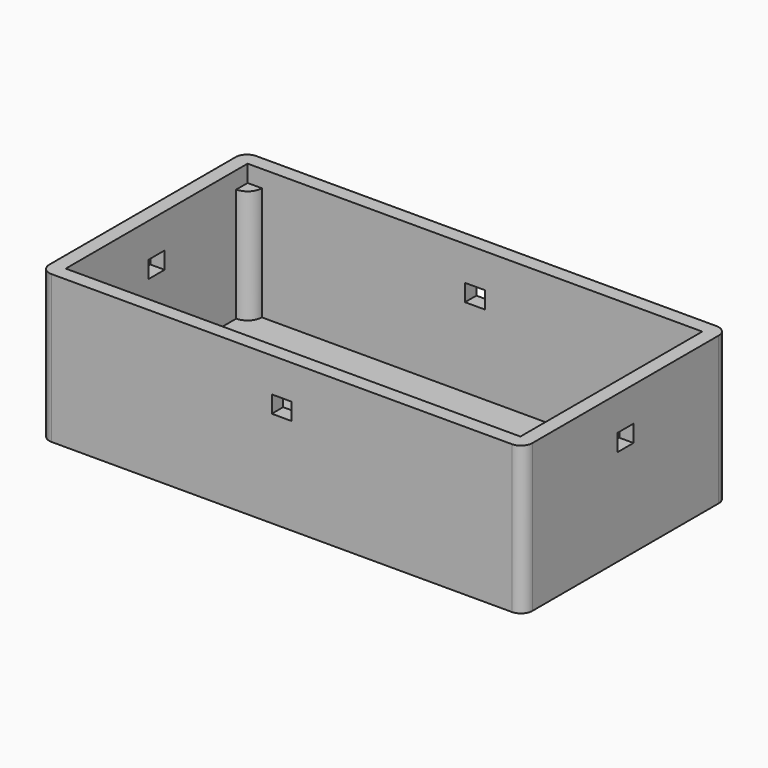
from build123d import *

# Parameters (mm, degrees)
F0_W      = 85
F0_H      = 45
F0_W_2    = 80
F0_H_2    = 40
F1_DEPTH  = 3
F2_DEPTH  = 26
F4_R      = 2.5
F5_DEPTH  = 20
F6_W      = 3.5
F6_H      = 3
F7_DEPTH  = 85.001
F8_W      = 3.5
F8_H      = 3
F9_DEPTH  = 30
F10_R     = 2
F11_R     = 5.75
F12_DEPTH = 3


with BuildPart() as f1:
    # F0 (on Top) → F1 (new body)
    with BuildSketch(Plane.XY):
        Rectangle(F0_W, F0_H)
        Rectangle(F0_W_2, F0_H_2, mode=Mode.SUBTRACT)
        Rectangle(F0_W_2, F0_H_2)
    extrude(amount=F1_DEPTH)

    # F0 (on Top) → F2 (join)
    with BuildSketch(Plane.XY):
        Rectangle(F0_W, F0_H)
        Rectangle(F0_W_2, F0_H_2, mode=Mode.SUBTRACT)
    extrude(amount=F2_DEPTH)

    # F4 (on offset) → F5 (join, through all)
    with BuildSketch(Plane.XY.offset(23)):
        with Locations((-40, 20)):
            Circle(F4_R)
        with Locations((40, 20)):
            Circle(F4_R)
        with Locations((40, -20)):
            Circle(F4_R)
        with Locations((-40, -20)):
            Circle(F4_R)
    extrude(amount=-F5_DEPTH)

    # F6 (on face) → F7 (cut, through all)
    with BuildSketch(Plane(origin=(-42.5, 0, 0), x_dir=(0, -1, 0), z_dir=(-1, 0, 0))):
        with Locations((0, 18.475)):
            Rectangle(F6_W, F6_H)
    extrude(amount=-F7_DEPTH, mode=Mode.SUBTRACT)

    # F8 (on Front) → F9 (cut, symmetric)
    with BuildSketch(Plane.XZ):
        with Locations((0, 18.475)):
            Rectangle(F8_W, F8_H)
    extrude(amount=F9_DEPTH, both=True, mode=Mode.SUBTRACT)

    # F10
    f10_edges = [f1.edges().sort_by_distance(p)[0] for p in [
        (-42.5, -22.5, 13),
        (42.5, -22.5, 13),
        (-42.5, 22.5, 13),
        (42.5, 22.5, 13),
    ]]
    fillet(f10_edges, radius=F10_R)

    # F11 (on face) → F12 (cut, through all)
    with BuildSketch(Plane.XY.offset(3)):
        with Locations((32.25, 0)):
            Circle(F11_R)
    extrude(amount=-F12_DEPTH, mode=Mode.SUBTRACT)


solid = f1.part
